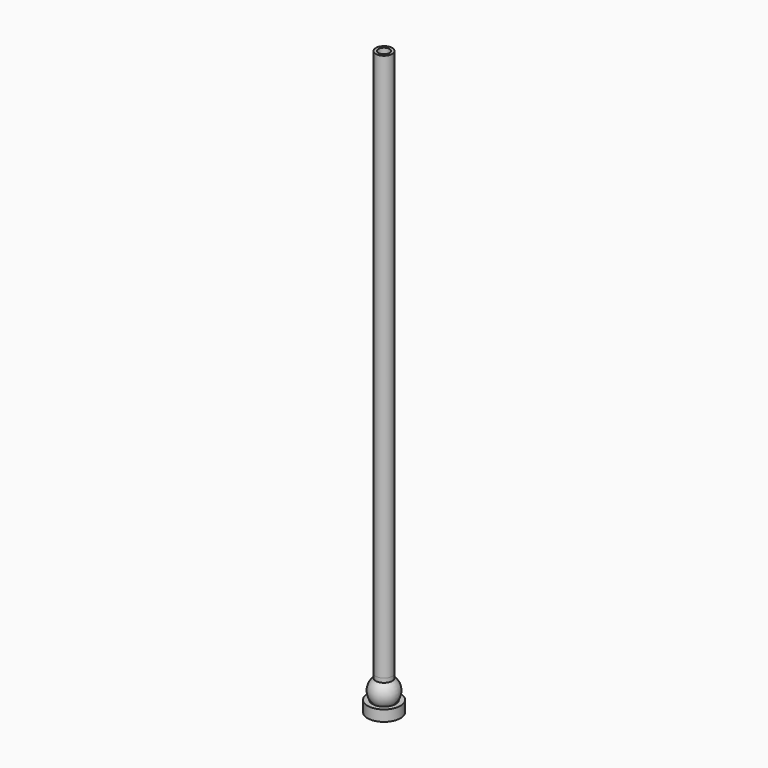
from build123d import *


with BuildPart() as f1:
    # F0 (on Front) → F1 (revolve)
    with BuildSketch(Plane.XZ):
        with BuildLine():
            Line((0, -3), (0, -5))
            ThreePointArc((0, -5), (4.743416, -1.581139), (3, 4))
            Line((3, 4), (2, 4))
            Line((2, 4), (2, -1))
            Line((2, -1), (0, -3))
        make_face()
    revolve(axis=Axis((0, 0, -4), (0, 0, -1)))


with BuildPart() as f2:
    # F0 (on Front) → F2 (revolve)
    with BuildSketch(Plane.XZ):
        with BuildLine():
            Line((6, -3), (4.247352, -3))
            ThreePointArc((4.247352, -3), (3.250746, -4.058651), (2, -4.8))
            Line((2, -4.8), (2, -7))
            Line((2, -7), (6, -7))
            Line((6, -7), (6, -3))
        make_face()
    revolve(axis=Axis((0, 0, -4), (0, 0, -1)))


with BuildPart() as f3:
    # F0 (on Front) → F3 (revolve)
    with BuildSketch(Plane.XZ):
        Polygon((2, 5.5), (3, 5.5), (3, 205.5), (2, 205.5), (2, 10.5), align=None)
    revolve(axis=Axis((0, 0, -4), (0, 0, -1)))


with BuildPart() as f4:
    # F0 (on Front) → F4 (revolve)
    with BuildSketch(Plane.XZ):
        Polygon((2, 4), (3, 4), (3, 5.5), (2, 5.5), (2, 10.5), (1.5, 10.5), (1.5, 4), align=None)
    revolve(axis=Axis((0, 0, -4), (0, 0, -1)))


with BuildPart() as f5:
    # F0 (on Front) → F5 (revolve)
    with BuildSketch(Plane.XZ):
        with BuildLine():
            Line((0, 0.5), (0, -0.5))
            ThreePointArc((0, -0.5), (0.5, 0), (0, 0.5))
        make_face()
    revolve(axis=Axis((0, 0, 0), (0, 0, -1)))


solid = Compound([f1.part, f2.part, f3.part, f4.part, f5.part])
